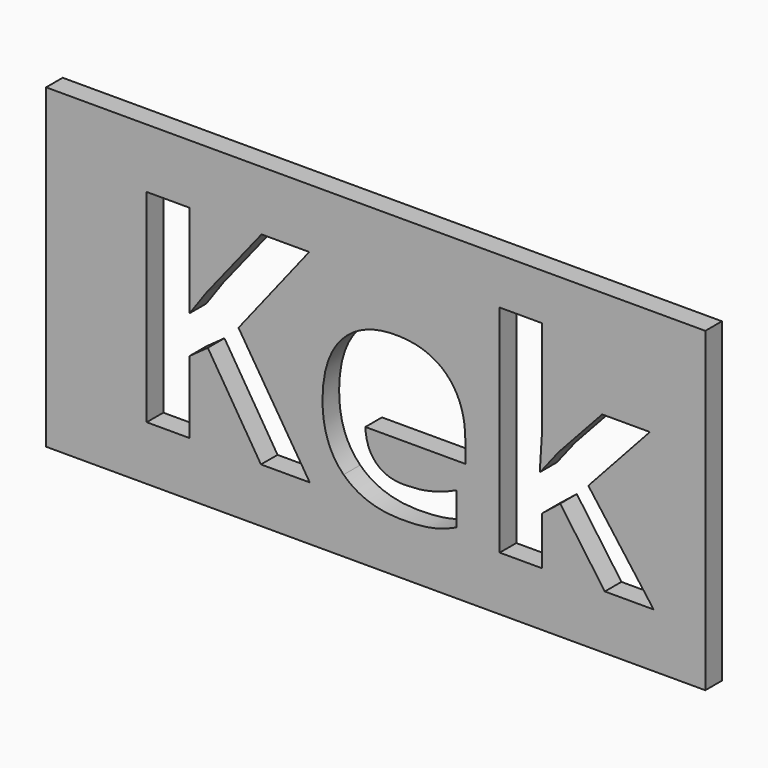
from build123d import *

# Parameters (mm, degrees)
F0_W     = 63.5
F0_H     = 30.48
F1_DEPTH = 2


with BuildPart() as f1:
    # F0 (on Front) → F1 (new body)
    with BuildSketch(Plane.XZ):
        with Locations((-9.0269604334, 15.24)):
            Rectangle(F0_W, F0_H)
        Polygon((-22.2420974153, 16.1173995548), (-15.3779914633, 5.2314233035), (-20.0794338962, 5.2314233035), (-25.1954580708, 13.4589475609), (-26.9435398481, 12.2023802198), (-26.9435398481, 5.2314233035), (-31.0850832276, 5.2314233035), (-31.0850832276, 24.7595055541), (-26.9435398481, 24.7595055541), (-26.9435398481, 15.8224908931), (-25.3151311509, 18.1219236466), (-20.0238713947, 24.7595055541), (-15.4292799262, 24.7595055541), align=None, mode=Mode.SUBTRACT)
        with BuildLine():
            add(Edge.make_bspline(
                [(-3.5175344169, 5.2228752263), (-4.7313613723, 4.9621588732), (-6.4837171881, 4.9621588732)],
                knots=[0, 0, 0, 1, 1, 1], degree=2))
            add(Edge.make_bspline(
                [(-6.4837171881, 4.9621588732), (-10.0867317071, 4.9621588732), (-12.1169000304, 6.9538608493)],
                knots=[0, 0, 0, 1, 1, 1], degree=2))
            add(Edge.make_bspline(
                [(-12.1169000304, 6.9538608493), (-14.1470683536, 8.9455628254), (-14.1470683536, 12.5913177302)],
                knots=[0, 0, 0, 1, 1, 1], degree=2))
            add(Edge.make_bspline(
                [(-14.1470683536, 12.5913177302), (-14.1470683536, 16.3439235993), (-12.2707654191, 18.3933250961)],
                knots=[0, 0, 0, 1, 1, 1], degree=2))
            add(Edge.make_bspline(
                [(-12.2707654191, 18.3933250961), (-10.3944624845, 20.442726593), (-7.0820825887, 20.442726593)],
                knots=[0, 0, 0, 1, 1, 1], degree=2))
            add(Edge.make_bspline(
                [(-7.0820825887, 20.442726593), (-3.9192940429, 20.442726593), (-2.1562531306, 18.6412193335)],
                knots=[0, 0, 0, 1, 1, 1], degree=2))
            add(Edge.make_bspline(
                [(-2.1562531306, 18.6412193335), (-0.3932122183, 16.839712074), (-0.3932122183, 13.659827374)],
                knots=[0, 0, 0, 1, 1, 1], degree=2))
            Line((-0.3932122183, 13.659827374), (-0.3932122183, 11.6809475136))
            Line((-0.3932122183, 11.6809475136), (-10.0226211285, 11.6809475136))
            add(Edge.make_bspline(
                [(-10.0226211285, 11.6809475136), (-9.9542365113, 9.945687852), (-8.9925778318, 8.9712070569)],
                knots=[0, 0, 0, 1, 1, 1], degree=2))
            add(Edge.make_bspline(
                [(-8.9925778318, 8.9712070569), (-8.0309191524, 7.9967262617), (-6.2956594908, 7.9967262617)],
                knots=[0, 0, 0, 1, 1, 1], degree=2))
            add(Edge.make_bspline(
                [(-6.2956594908, 7.9967262617), (-4.945063301, 7.9967262617), (-3.7440584614, 8.2766757884)],
                knots=[0, 0, 0, 1, 1, 1], degree=2))
            add(Edge.make_bspline(
                [(-3.7440584614, 8.2766757884), (-2.5430536217, 8.5566253151), (-1.2351978177, 9.1720868699)],
                knots=[0, 0, 0, 1, 1, 1], degree=2))
            Line((-1.2351978177, 9.1720868699), (-1.2351978177, 6.0178464013))
            add(Edge.make_bspline(
                [(-1.2351978177, 6.0178464013), (-2.3037074615, 5.4835915794), (-3.5175344169, 5.2228752263)],
                knots=[0, 0, 0, 1, 1, 1], degree=2))
        make_face(mode=Mode.SUBTRACT)
        Polygon((6.778624511, 13.3520965966), (6.8341870125, 13.3520965966), (8.6079130213, 15.6216110801), (12.7879227479, 20.1649140856), (17.3825142164, 20.1649140856), (11.4544227124, 13.6854716054), (17.7458074953, 5.2314233035), (13.0443650624, 5.2314233035), (8.7446822557, 11.2834619261), (6.9923264398, 9.8815772734), (6.9923264398, 5.2314233035), (2.9191676775, 5.2314233035), (2.9191676775, 26.0160728952), (6.9923264398, 26.0160728952), (6.9923264398, 16.7456832254), align=None, mode=Mode.SUBTRACT)
    extrude(amount=F1_DEPTH)


solid = f1.part
